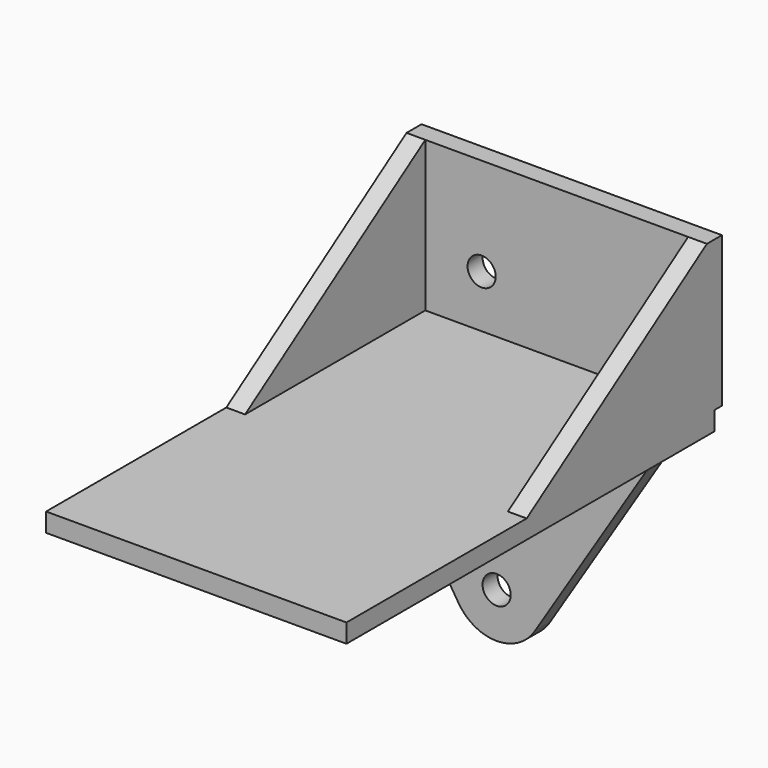
from build123d import *

# Parameters (mm, degrees)
F0_W          = 101.6
F0_H          = 50.8
F1_DEPTH      = 6.35
F2_W          = 101.6
F2_H          = 6.35
F3_DEPTH      = 152.4
F3_DEPTH_BACK = 3.175
F8_R          = 4.7625
F9_DEPTH      = 6.35
F10_DEPTH     = 6.35
F11_DEPTH     = 6.35
F12_D         = 9.525


with BuildPart() as f1:
    # F0 (on Front) → F1 (new body)
    with BuildSketch(Plane.XZ):
        Rectangle(F0_W, F0_H)
    extrude(amount=F1_DEPTH)

    # F2 (on face) → F3 (join, two sides)
    with BuildSketch(Plane.XZ.offset(6.35)) as f3_sk:
        with Locations((0, -28.575)):
            Rectangle(F2_W, F2_H)
    extrude(amount=F3_DEPTH)
    extrude(f3_sk.sketch, amount=-F3_DEPTH_BACK)

    # F8 (on offset) → F9 (join)
    with BuildSketch(Plane.XZ.offset(25.4)):
        with BuildLine():
            Line((-50.8, -31.75), (-13.0057051322, -91.7641320492))
            Line((-13.0057051322, -91.7641320492), (-12.7835835223, -92.1168423107))
            ThreePointArc((-12.7835835223, -92.1168423107), (0, -99.06), (12.7835835223, -92.1168423107))
            Line((12.7835835223, -92.1168423107), (13.0057051322, -91.7641320492))
            Line((13.0057051322, -91.7641320492), (50.8, -31.75))
            Line((50.8, -31.75), (-50.8, -31.75))
        make_face()
        with Locations((0, -83.82)):
            Circle(F8_R, mode=Mode.SUBTRACT)
    extrude(amount=F9_DEPTH)

    # F5 (on face) → F10 (join)
    with BuildSketch(Plane(origin=(-50.8, 0, 0), x_dir=(0, -1, 0), z_dir=(-1, 0, 0))):
        Polygon((82.55, -25.4), (6.35, 25.4), (6.35, -25.4), align=None)
    extrude(amount=-F10_DEPTH)

    # F4 (on face) → F11 (join)
    with BuildSketch(Plane.YZ.offset(50.8)):
        Polygon((-82.55, -25.4), (-6.35, -25.4), (-6.35, 25.4), align=None)
    extrude(amount=-F11_DEPTH)

    # F12 (through all)
    with Locations(Plane.XZ.offset(6.35)):
        with Locations((-25.4, -7.62)):
            Hole(F12_D / 2)


solid = f1.part
